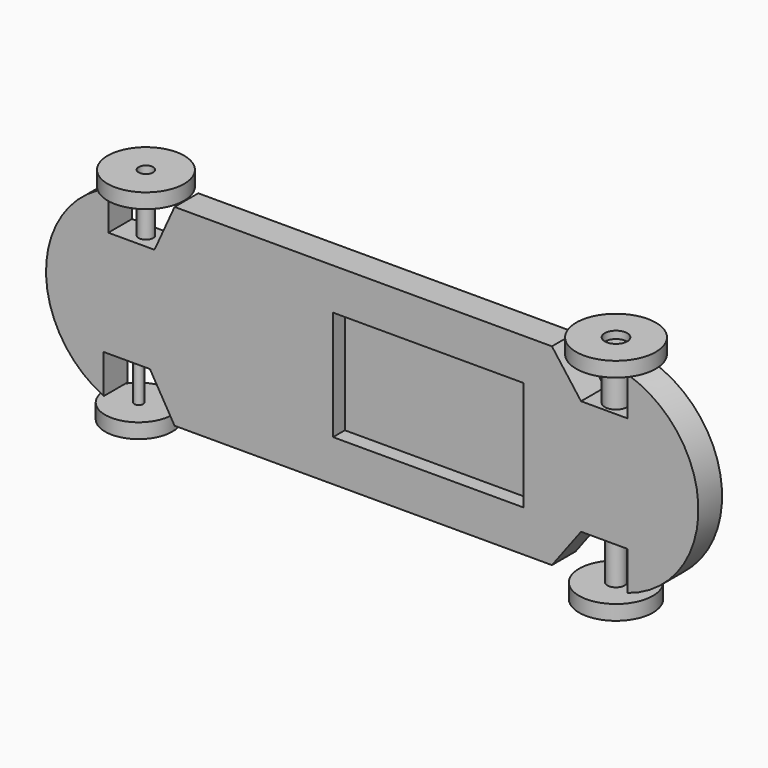
from build123d import *

# Parameters (mm, degrees)
F1_DEPTH  = 12.7
F0_W      = 163.3856055679
F0_H      = 27.0547205253
F0_H_2    = 34.7771560773
F0_H_3    = 32.1148465989
F2_DEPTH  = 12.192
F0_W_2    = 6.2235964999
F0_H_4    = 43.18
F0_W_3    = 3.7542508378
F0_W_4    = 9.6248776398
F0_W_5    = 7.4676067315
F7_R      = 32.7809954098
F7_R_2    = 6.2235964999
F8_DEPTH  = 6.35
F9_R      = 34.1304188129
F9_R_2    = 9.6248776398
F10_DEPTH = 6.35
F11_R     = 31.6050614304
F11_R_2   = 7.4676067315
F12_DEPTH = 6.35
F13_R     = 28.7772808224
F13_R_2   = 3.7542508378
F14_DEPTH = 6.35


with BuildPart() as f1:
    # F0 (on Front) → F1 (new body, symmetric)
    with BuildSketch(Plane.XZ):
        with BuildLine():
            Line((186.7009509993, 49.238986743), (161.7247212493, 82.55))
            Line((161.7247212493, 82.55), (-161.7247212493, 82.55))
            Line((-161.7247212493, 82.55), (-178.912508309, 44.6288234264))
            Line((-178.912508309, 44.6288234264), (-196.4037567377, 44.6288234264))
            Line((-196.4037567377, 44.6288234264), (-202.6273532376, 44.6288234264))
            Line((-202.6273532376, 44.6288234264), (-218.5374638219, 44.6288234264))
            Line((-218.5374638219, 44.6288234264), (-218.5374638219, 77.9398366834))
            ThreePointArc((-218.5374638219, 77.9398366834), (-271.8769801908, 0.258229293), (-222.4398309941, -79.9633663813))
            Line((-222.4398309941, -79.9633663813), (-222.4398309941, -46.6523531243))
            Line((-222.4398309941, -46.6523531243), (-206.3816040754, -46.6523531243))
            Line((-206.3816040754, -46.6523531243), (-202.6273532376, -46.6523531243))
            Line((-202.6273532376, -46.6523531243), (-182.8148754811, -46.6523531243))
            Line((-182.8148754811, -46.6523531243), (-161.7247212493, -82.55))
            Line((-161.7247212493, -82.55), (161.7247212493, -82.55))
            Line((161.7247212493, -82.55), (186.7009509993, -49.238986743))
            Line((186.7009509993, -49.238986743), (199.0458220243, -49.238986743))
            Line((199.0458220243, -49.238986743), (206.5134287558, -49.238986743))
            Line((206.5134287558, -49.238986743), (226.3259065123, -49.238986743))
            Line((226.3259065123, -49.238986743), (226.3259065123, -82.55))
            ThreePointArc((226.3259065123, -82.55), (287.2935352333, 0), (226.3259065123, 82.55))
            Line((226.3259065123, 82.55), (226.3259065123, 49.238986743))
            Line((226.3259065123, 49.238986743), (206.5134287558, 49.238986743))
            Line((206.5134287558, 49.238986743), (196.888551116, 49.238986743))
            Line((196.888551116, 49.238986743), (186.7009509993, 49.238986743))
        make_face()
        Polygon((137.5162151193, -14.8585150018), (137.5162151193, -46.9733616008), (-25.8693904485, -46.9733616008), (-25.8693904485, -14.8585150018), (-25.8693904485, 19.9186410755), (-25.8693904485, 46.9733616008), (137.5162151193, 46.9733616008), (137.5162151193, 19.9186410755), align=None, mode=Mode.SUBTRACT)
    extrude(amount=F1_DEPTH, both=True)

    # F0 (on Front) → F2 (join)
    with BuildSketch(Plane.XZ):
        with Locations((55.8234123354, 33.4460013381)):
            Rectangle(F0_W, F0_H)
        with Locations((55.8234123354, 2.5300630368)):
            Rectangle(F0_W, F0_H_2)
        with Locations((55.8234123354, -30.9159383013)):
            Rectangle(F0_W, F0_H_3)
    extrude(amount=-F2_DEPTH)

    # F0 (on Front) → F3 (revolve)
    with BuildSketch(Plane.XZ):
        with Locations((-199.5155549877, 66.2188234264)):
            Rectangle(F0_W_2, F0_H_4)
    revolve(axis=Axis((-196.4037567377, 0, 66.2188234264), (0, 0, 1)))

    # F0 (on Front) → F4 (revolve)
    with BuildSketch(Plane.XZ):
        with Locations((-204.5044786565, -68.2423531243)):
            Rectangle(F0_W_3, F0_H_4)
    revolve(axis=Axis((-202.6273532376, 0, -68.2423531243), (0, 0, -1)))

    # F0 (on Front) → F5 (revolve)
    with BuildSketch(Plane.XZ):
        with Locations((201.7009899359, 70.828986743)):
            Rectangle(F0_W_4, F0_H_4)
    revolve(axis=Axis((206.5134287558, 0, 70.828986743), (0, 0, 1)))

    # F0 (on Front) → F6 (revolve)
    with BuildSketch(Plane.XZ):
        with Locations((202.7796253901, -70.828986743)):
            Rectangle(F0_W_5, F0_H_4)
    revolve(axis=Axis((206.5134287558, 0, -70.828986743), (0, 0, -1)))

    # F7 (on face) → F8 (join, symmetric)
    with BuildSketch(Plane.XY.offset(87.8088234264)):
        with Locations((-196.4037567377, 0)):
            Circle(F7_R)
        with Locations((-196.4037567377, 0)):
            Circle(F7_R_2, mode=Mode.SUBTRACT)
    extrude(amount=F8_DEPTH, both=True)

    # F9 (on face) → F10 (join, symmetric)
    with BuildSketch(Plane.XY.offset(92.418986743)):
        with Locations((206.5134287558, 0)):
            Circle(F9_R)
        with Locations((206.5134287558, 0)):
            Circle(F9_R_2, mode=Mode.SUBTRACT)
    extrude(amount=F10_DEPTH, both=True)

    # F11 (on face) → F12 (join, symmetric)
    with BuildSketch(Plane(origin=(0, 0, -92.418986743), x_dir=(1, 0, 0), z_dir=(0, 0, -1))):
        with Locations((206.5134287558, 0)):
            Circle(F11_R)
        with Locations((206.5134287558, 0)):
            Circle(F11_R_2, mode=Mode.SUBTRACT)
    extrude(amount=F12_DEPTH, both=True)

    # F13 (on face) → F14 (join, symmetric)
    with BuildSketch(Plane(origin=(0, 0, -89.8323531243), x_dir=(1, 0, 0), z_dir=(0, 0, -1))):
        with Locations((-202.6273532376, 0)):
            Circle(F13_R)
        with Locations((-202.6273532376, 0)):
            Circle(F13_R_2, mode=Mode.SUBTRACT)
    extrude(amount=F14_DEPTH, both=True)


solid = f1.part
